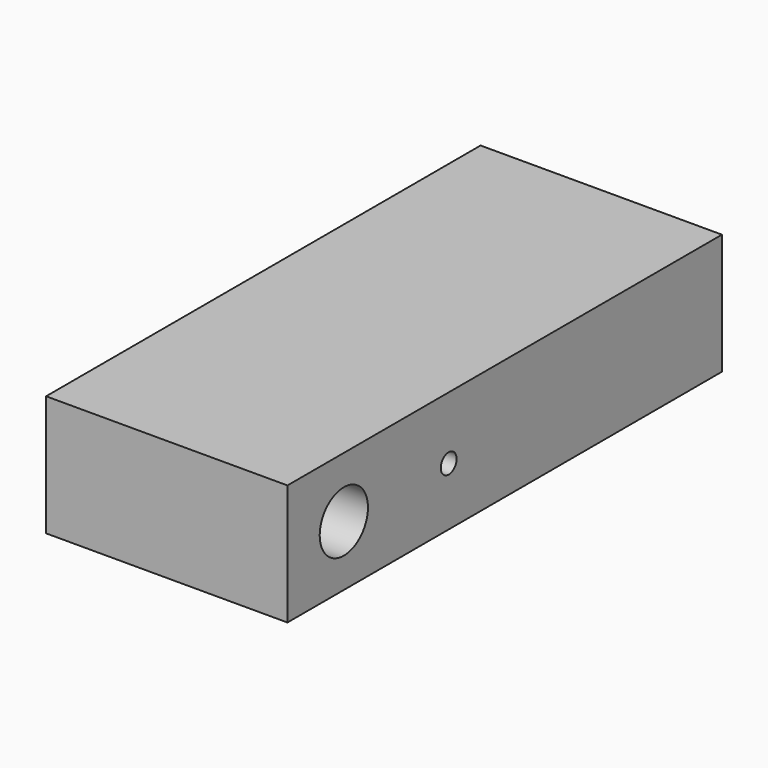
from build123d import *

# Parameters (mm, degrees)
F0_W     = 25.4
F0_H     = 57.15
F1_DEPTH = 12.7
F2_R     = 3.175
F3_DEPTH = 30.8102
F4_R     = 3.9624
F5_DEPTH = 41.40454
F6_R     = 1.0414
F7_DEPTH = 16.9418


with BuildPart() as f1:
    # F0 (on Top) → F1 (new body)
    with BuildSketch(Plane.XY):
        Rectangle(F0_W, F0_H)
    extrude(amount=F1_DEPTH)

    # F2 (on face) → F3 (cut)
    with BuildSketch(Plane(origin=(-12.7, 0, 0), x_dir=(0, -1, 0), z_dir=(-1, 0, 0))):
        with Locations((21.1582, 6.35)):
            Circle(F2_R)
    extrude(amount=-F3_DEPTH, mode=Mode.SUBTRACT)

    # F4 (on face) → F5 (cut)
    with BuildSketch(Plane(origin=(0, 28.575, 0), x_dir=(-1, 0, 0), z_dir=(0, 1, 0))):
        with Locations((6.35, 6.35)):
            Circle(F4_R)
    extrude(amount=-F5_DEPTH, mode=Mode.SUBTRACT)

    # F6 (on face) → F7 (cut)
    with BuildSketch(Plane.YZ.offset(12.7)):
        with Locations((-7.366, 6.121051)):
            Circle(F6_R)
    extrude(amount=-F7_DEPTH, mode=Mode.SUBTRACT)


solid = f1.part
